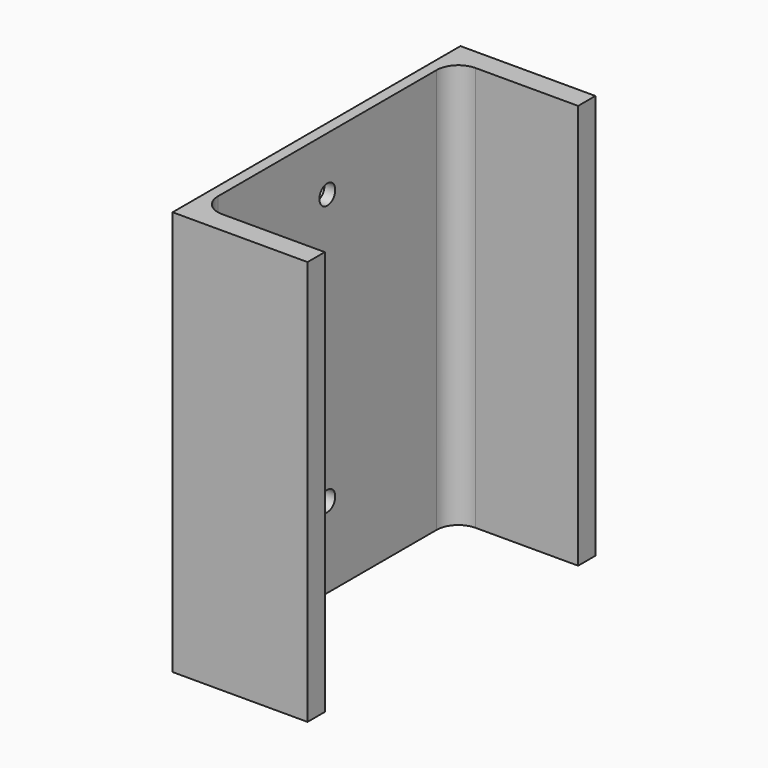
from build123d import *

# Parameters (mm, degrees)
F1_DEPTH = 225
F2_R     = 5.5
F3_DEPTH = 75.001


with BuildPart() as f1:
    # F0 (on Top) → F1 (new body)
    with BuildSketch(Plane.XY):
        with BuildLine():
            Line((0, 200), (0, 0))
            Line((0, 0), (75, 0))
            Line((75, 0), (75, 12))
            Line((75, 12), (18, 12))
            ThreePointArc((18, 12), (9.514719, 15.514719), (6, 24))
            Line((6, 24), (6, 176))
            ThreePointArc((6, 176), (9.514719, 184.485281), (18, 188))
            Line((18, 188), (75, 188))
            Line((75, 188), (75, 200))
            Line((75, 200), (0, 200))
        make_face()
    extrude(amount=F1_DEPTH)

    # F2 (on Right) → F3 (cut, through all)
    with BuildSketch(Plane.YZ):
        with Locations((100, 195)):
            Circle(F2_R)
        with Locations((100, 45)):
            Circle(F2_R)
    extrude(amount=F3_DEPTH, mode=Mode.SUBTRACT)


solid = f1.part
